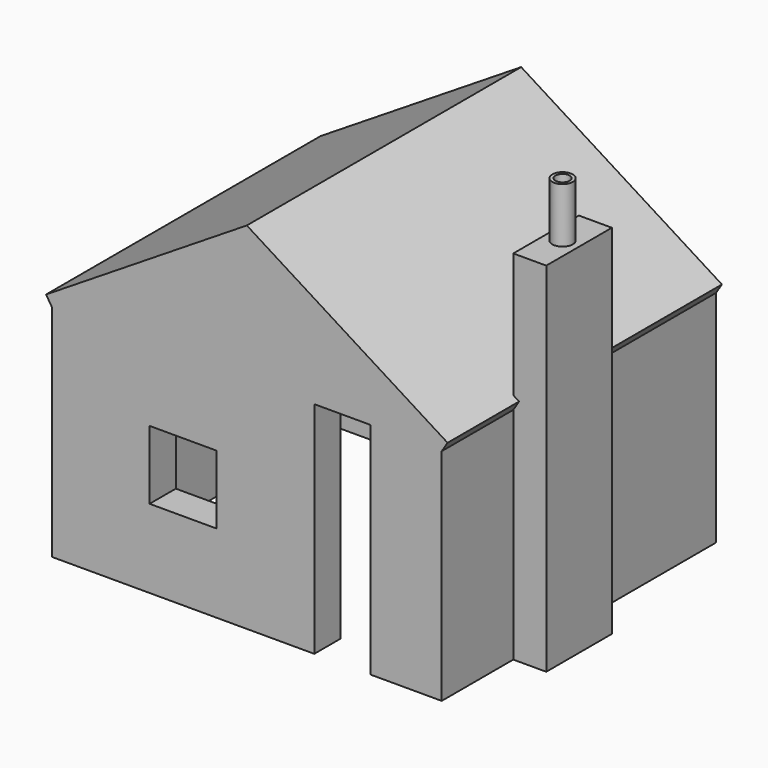
from build123d import *

# Parameters (mm, degrees)
F1_DEPTH  = 100
F2_W      = 30.510824
F2_H      = 31.205505
F3_DEPTH  = 25
F5_DEPTH  = 156.006396
F6_DEPTH  = 156.006396
F7_W      = 37.313528
F7_H      = 100
F7_H_2    = 62.66261
F8_DEPTH  = 15
F9_R      = 4.65702
F10_DEPTH = 25
F11_R     = 3.230766
F12_DEPTH = 130


with BuildPart() as f1:
    # F0 (on Top) → F1 (new body)
    with BuildSketch(Plane.XY):
        Polygon((56.264594, -78.003198), (88.659361, -78.003198), (88.659361, 78.003198), (-88.659361, 78.003198), (-88.659361, -78.003198), (30.689791, -78.003198), (30.689791, -63.084543), (-72.03573, -63.084543), (-72.03573, 63.084543), (72.03573, 63.084543), (72.03573, -63.084543), (56.264594, -63.084543), align=None)
    extrude(amount=F1_DEPTH)

    # F2 (on face) → F3 (cut)
    with BuildSketch(Plane.XZ.offset(78.003198)):
        with Locations((-28.984785, 51.321357)):
            Rectangle(F2_W, F2_H)
    extrude(amount=-F3_DEPTH, mode=Mode.SUBTRACT)

    # F4 (on face) → F5 (join, through all)
    with BuildSketch(Plane.XZ.offset(78.003198)):
        Polygon((88.659361, 100), (0, 155.675024), (-88.659361, 100), (30.689791, 100), (56.264594, 100), align=None)
    extrude(amount=-F5_DEPTH)

    # F4 (on face) → F6 (join, through all)
    with BuildSketch(Plane.XZ.offset(78.003198)):
        Polygon((-88.659361, 100), (0, 155.675024), (88.659361, 100), (91.31838, 104.234338), (0, 161.579134), (-91.31838, 104.234338), align=None)
    extrude(amount=-F6_DEPTH)

    # F7 (on face) → F8 (join)
    with BuildSketch(Plane.YZ.offset(88.659361)):
        with Locations((-18.656764, 50)):
            Rectangle(F7_W, F7_H)
        with Locations((-18.656764, 131.331305)):
            Rectangle(F7_W, F7_H_2)
    extrude(amount=F8_DEPTH)

    # F9 (on face) → F10 (join)
    with BuildSketch(Plane.XY.offset(162.66261)):
        with Locations((96.159361, -18.656764)):
            Circle(F9_R)
    extrude(amount=F10_DEPTH)

    # F11 (on face) → F12 (cut)
    with BuildSketch(Plane.XY.offset(187.66261)):
        with Locations((96.159361, -18.656764)):
            Circle(F11_R)
    extrude(amount=-F12_DEPTH, mode=Mode.SUBTRACT)


solid = f1.part
